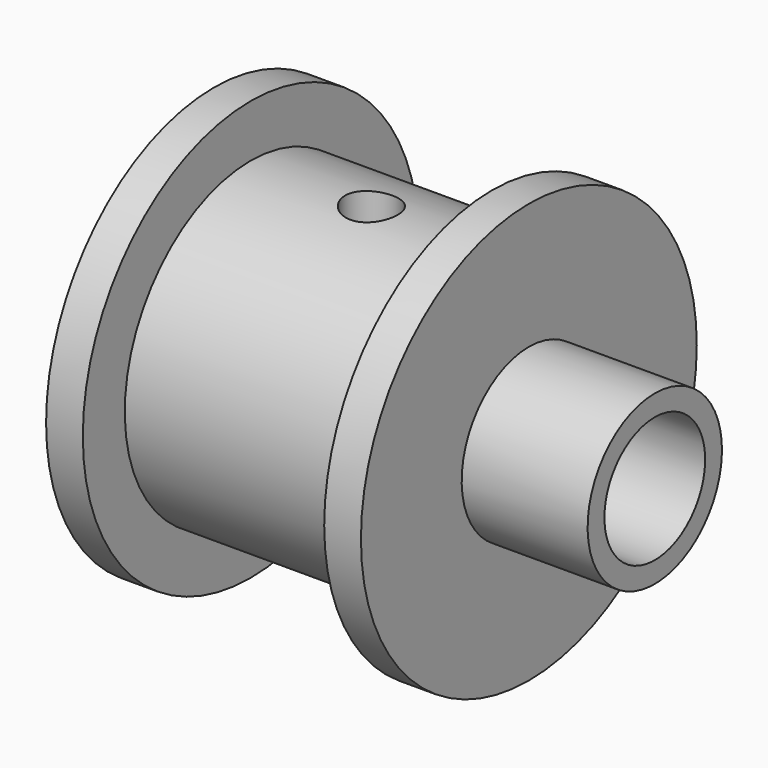
from build123d import *

# Parameters (mm, degrees)
F4_D     = 2.5
F4_DEPTH = 8
F4_START = 17.6049004
F4_TIP   = 0.7510757738


with BuildPart() as f1:
    # F0 (on Front) → F1 (revolve)
    with BuildSketch(Plane.XZ):
        Polygon((-7.5, 3), (13.5, 3), (13.5, 4), (7.5, 4), (7.5, 10), (5.75, 10), (5.75, 7.5), (-5.75, 7.5), (-5.75, 10), (-7.5, 10), align=None)
    revolve(axis=Axis((1.1428869498, 0, 0), (1, 0, 0)))

    # F4
    # its depths count from where the whole tool has entered the part; down to there all is cleared
    with Locations(Plane.XY.offset(25)):
        with Locations((0, 0)):
            Hole(F4_D / 2, depth=F4_START)
    with Locations(Plane.XY.offset(25).offset(-F4_START)):
        with Locations((0, 0)):
            Hole(F4_D / 2, depth=F4_DEPTH)
            with Locations((0, 0, -(F4_DEPTH + F4_TIP / 2))):  # 118° drill point
                Cone(0, F4_D / 2, F4_TIP, mode=Mode.SUBTRACT)


solid = f1.part
